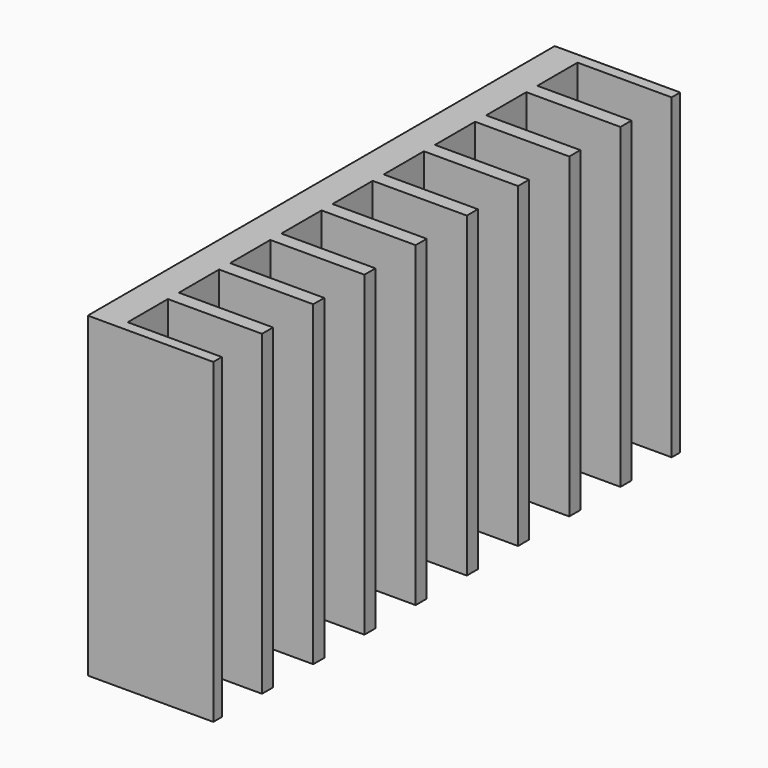
from build123d import *

# Parameters (mm, degrees)
SKETCH002_W     = 10
SKETCH002_H     = 46.5
PAD001_DEPTH    = 25.25
SKETCH003_W     = 10
SKETCH003_H     = 4
POCKET001_DEPTH = 25.25
SKETCH004_R     = 1.5
POCKET002_DEPTH = 5


with BuildPart() as part:
    # Sketch002 → Pad001 (new body)
    with BuildSketch(Plane.XY):
        Rectangle(SKETCH002_W, SKETCH002_H)
    extrude(amount=PAD001_DEPTH)

    # Sketch003 (on Face6 of Pad001) → Pocket001 (cut)
    with BuildSketch(Plane.XY.offset(25.25)):
        with Locations((2.5, 20.4)):
            Rectangle(SKETCH003_W, SKETCH003_H)
        with Locations((2.5, 10.2)):
            Rectangle(SKETCH003_W, SKETCH003_H)
        with Locations((2.5, 15.3)):
            Rectangle(SKETCH003_W, SKETCH003_H)
        with Locations((2.5, 5.1)):
            Rectangle(SKETCH003_W, SKETCH003_H)
        with Locations((2.5, 0)):
            Rectangle(SKETCH003_W, SKETCH003_H)
        with Locations((2.5, -20.4)):
            Rectangle(SKETCH003_W, SKETCH003_H)
        with Locations((2.5, -15.3)):
            Rectangle(SKETCH003_W, SKETCH003_H)
        with Locations((2.5, -10.2)):
            Rectangle(SKETCH003_W, SKETCH003_H)
        with Locations((2.5, -5.1)):
            Rectangle(SKETCH003_W, SKETCH003_H)
    extrude(amount=-POCKET001_DEPTH, mode=Mode.SUBTRACT)

    # Sketch004 (on Face26 of Pocket001) → Pocket002 (cut)
    with BuildSketch(Plane.YZ.offset(-2.5)):
        with Locations((0, 15)):
            Circle(SKETCH004_R)
    extrude(amount=-POCKET002_DEPTH, mode=Mode.SUBTRACT)


with BuildPart() as part_1:
    # Body001 placement: moved
    add(part.part.moved(Location((21.25, 0, 1.65))))


solid = part_1.part
